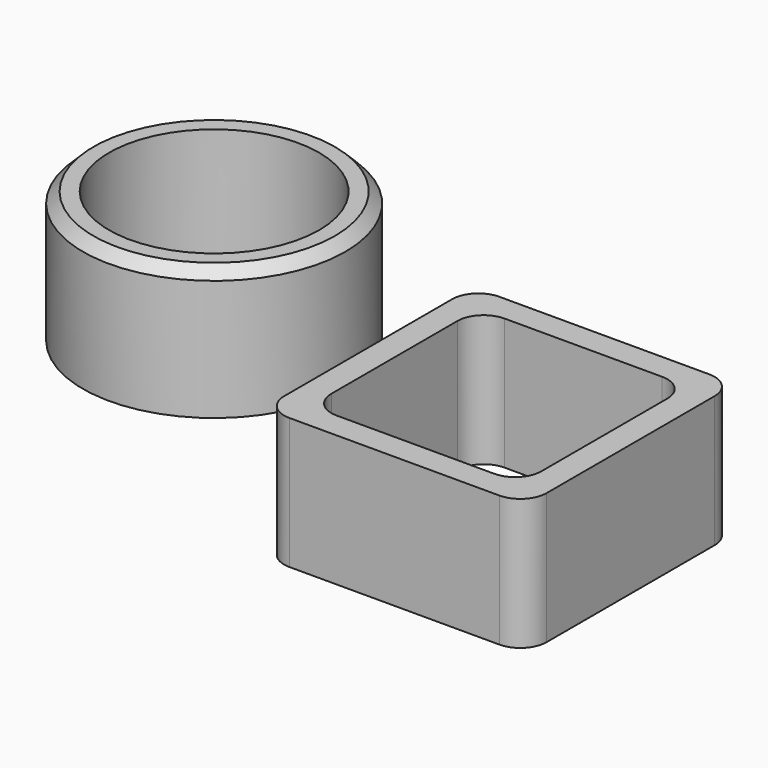
from build123d import *

# Parameters (mm, degrees)
F0_R     = 25
F0_R_2   = 20
F1_DEPTH = 25
F2_W     = 50
F2_H     = 50
F2_W_2   = 40
F2_H_2   = 40
F3_DEPTH = 25
F4_R     = 5
F5_SIZE  = 2


with BuildPart() as f1:
    # F0 (on Top) → F1 (new body)
    with BuildSketch(Plane.XY):
        Circle(F0_R)
        Circle(F0_R_2, mode=Mode.SUBTRACT)
    extrude(amount=F1_DEPTH)

    # F5
    f5_edges = [f1.edges().sort_by_distance(p)[0] for p in [
        (-25, 0, 25),
    ]]
    chamfer(f5_edges, length=F5_SIZE)


with BuildPart() as f3:
    # F2 (on Top) → F3 (new body)
    with BuildSketch(Plane.XY):
        with Locations((74.337745, -25)):
            Rectangle(F2_W, F2_H)
        with Locations((74.337745, -25)):
            Rectangle(F2_W_2, F2_H_2, mode=Mode.SUBTRACT)
    extrude(amount=F3_DEPTH)

    # F4
    f4_edges = [f3.edges().sort_by_distance(p)[0] for p in [
        (54.337745, -5, 12.5),
        (54.337745, -45, 12.5),
        (94.337745, -5, 12.5),
        (94.337745, -45, 12.5),
        (49.337745, 0, 12.5),
        (99.337745, 0, 12.5),
        (49.337745, -50, 12.5),
        (99.337745, -50, 12.5),
    ]]
    fillet(f4_edges, radius=F4_R)


solid = Compound([f1.part, f3.part])
